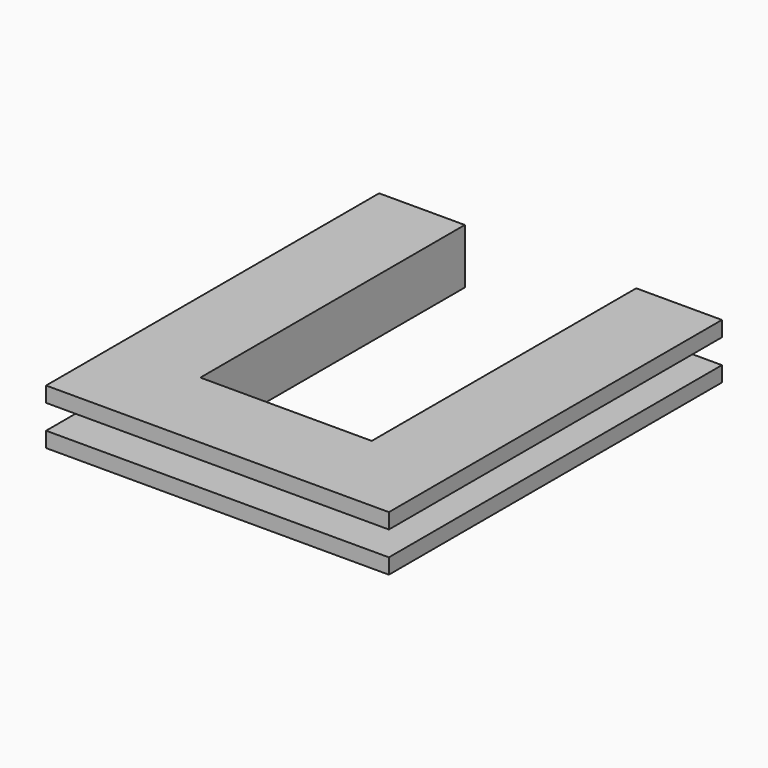
from build123d import *

# Parameters (mm, degrees)
F1_DEPTH = 4.5
F2_W     = 34
F2_H     = 2
F3_DEPTH = 5.5
F4_W     = 34
F4_H     = 2
F5_DEPTH = 5.5
F6_W     = 17
F6_H     = 2
F7_DEPTH = 5.5


with BuildPart() as f1:
    # F0 (on Top) → F1 (new body)
    with BuildSketch(Plane.XY):
        Polygon((-14, -17), (14, -17), (14, 17), (7, 17), (7, -10), (-7, -10), (-7, 17), (-14, 17), align=None)
    extrude(amount=F1_DEPTH)

    # F2 (on face) → F3 (cut)
    with BuildSketch(Plane(origin=(-14, 0, 0), x_dir=(0, -1, 0), z_dir=(-1, 0, 0))):
        with Locations((0, 2.25)):
            Rectangle(F2_W, F2_H)
    extrude(amount=-F3_DEPTH, mode=Mode.SUBTRACT)

    # F4 (on face) → F5 (cut)
    with BuildSketch(Plane.YZ.offset(14)):
        with Locations((0, 2.25)):
            Rectangle(F4_W, F4_H)
    extrude(amount=-F5_DEPTH, mode=Mode.SUBTRACT)

    # F6 (on face) → F7 (cut)
    with BuildSketch(Plane.XZ.offset(17)):
        with Locations((0, 2.25)):
            Rectangle(F6_W, F6_H)
    extrude(amount=-F7_DEPTH, mode=Mode.SUBTRACT)


solid = f1.part
